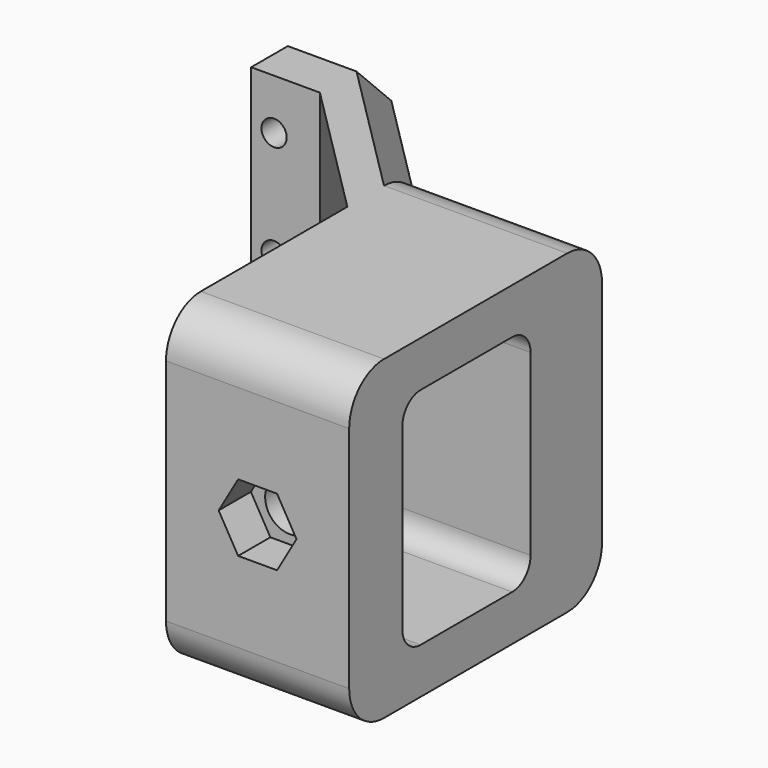
from build123d import *

# Parameters (mm, degrees)
SKETCH002_W          = 87.63
SKETCH002_H          = 87.63
PAD001_DEPTH         = 25.4
FILLET002_R          = 12.065
SKETCH003_W          = 44.45
SKETCH003_H          = 62.23
POCKET001_DEPTH      = 25.401
POCKET001_DEPTH_BACK = 25.401
FILLET003_R          = 6.35
SKETCH004_R          = 6.85
POCKET002_DEPTH      = 18.416
POCKET003_DEPTH      = 11.176
PAD002_DEPTH         = 19.05
SKETCH008_R          = 3.5
POCKET004_DEPTH      = 24.766


with BuildPart() as part:
    # Sketch002 → Pad001 (new body, symmetric)
    with BuildSketch(Plane.YZ):
        Rectangle(SKETCH002_W, SKETCH002_H)
    extrude(amount=PAD001_DEPTH, both=True)

    # Fillet002
    fillet002_edges = [part.edges().sort_by_distance(p)[0] for p in [
        (0, -43.815, 43.815),
        (0, -43.815, -43.815),
        (0, 43.815, -43.815),
        (0, 43.815, 43.815),
    ]]
    fillet(fillet002_edges, radius=FILLET002_R)

    # Sketch003 → Pocket001 (cut, two sides)
    with BuildSketch(Plane.YZ) as pocket001_sk:
        with Locations((-3.175, 0)):
            Rectangle(SKETCH003_W, SKETCH003_H)
    extrude(amount=POCKET001_DEPTH, mode=Mode.SUBTRACT)
    extrude(pocket001_sk.sketch, amount=-POCKET001_DEPTH_BACK, mode=Mode.SUBTRACT)

    # Fillet003
    fillet003_edges = [part.edges().sort_by_distance(p)[0] for p in [
        (0, -25.4, -31.115),
        (0, 19.05, -31.115),
        (0, 19.05, 31.115),
        (0, -25.4, 31.115),
    ]]
    fillet(fillet003_edges, radius=FILLET003_R)

    # Sketch004 (on Face9 of Fillet003) → Pocket002 (cut, through all)
    with BuildSketch(Plane.ZX.offset(-25.4)):
        Circle(SKETCH004_R)
    extrude(amount=-POCKET002_DEPTH, mode=Mode.SUBTRACT)

    # Sketch005 (on Face13 of Pocket002) → Pocket003 (cut)
    with BuildSketch(Plane(origin=(0, -43.815, 0), x_dir=(0, 0, -1), z_dir=(0, -1, 0))):
        Polygon((9.348744, -5.3975), (9.348744, 5.3975), (0, 10.795), (-9.348744, 5.3975), (-9.348744, -5.3975), (0, -10.795), align=None)
    extrude(amount=-POCKET003_DEPTH, mode=Mode.SUBTRACT)

    # AdditivePipe: sweep along a path in Sketch007
    with BuildLine(Plane(origin=(0, 0, 43.815), x_dir=(0, -1, 0), z_dir=(0, 0, 1))) as additivepipe_path:
        Line((-31.75, -25.4), (-69.85, -63.5))
    # Sketch006 (on Face1 of Pocket003) → AdditivePipe (sweep)
    with BuildSketch(Plane(origin=(-25.4, 0, 0), x_dir=(0, 1, 0), z_dir=(-1, 0, 0))):
        Polygon((19.05, 43.815), (31.75, 43.815), (43.815, 31.75), (43.815, -31.75), (31.75, -43.815), (19.05, -43.815), (19.05, 24.765), align=None)
    sweep(path=additivepipe_path.line)

    # AdditivePipe Face20 → Pad002 (new)
    with BuildSketch(Plane(origin=(-63.5, 68.931373, 0), x_dir=(0, 1, 0), z_dir=(-1, 0, 0))):
        Polygon((-11.781373, -43.815), (0.918627, -43.815), (12.983627, -31.75), (12.983627, 31.75), (0.918627, 43.815), (-11.781373, 43.815), (-11.781373, 24.765), align=None)
    extrude(amount=PAD002_DEPTH)

    # Sketch008 (on Face20 of Pad002) → Pocket004 (cut, through all)
    with BuildSketch(Plane(origin=(0, 57.15, 0), x_dir=(0, 0, -1), z_dir=(0, -1, 0))):
        with Locations((-29.845, -76.2)):
            Circle(SKETCH008_R)
        with Locations((0, -76.2)):
            Circle(SKETCH008_R)
        with Locations((29.845, -76.2)):
            Circle(SKETCH008_R)
    extrude(amount=-POCKET004_DEPTH, mode=Mode.SUBTRACT)


solid = part.part
